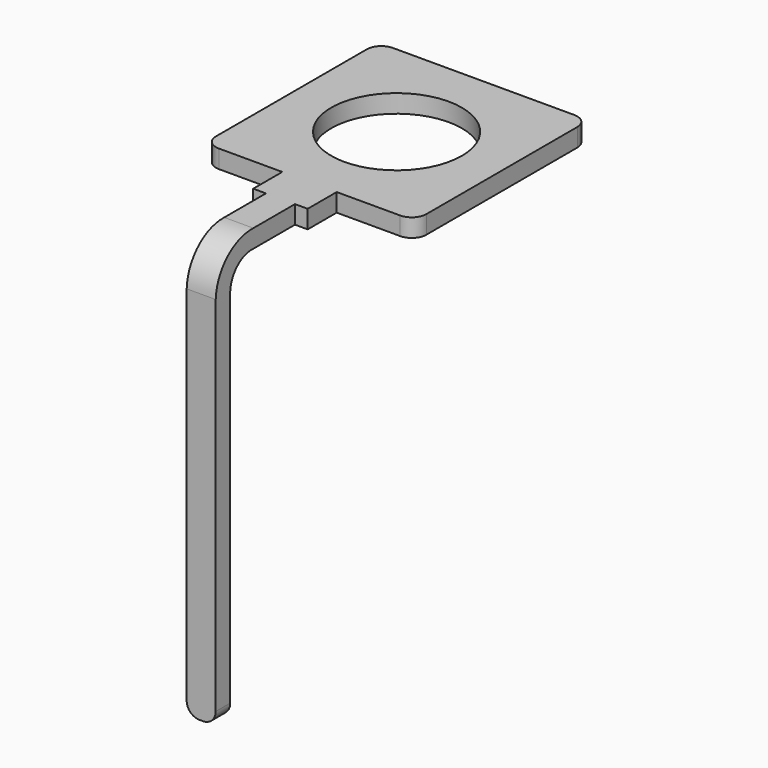
from build123d import *

# Parameters (mm, degrees)
SKETCH008_W     = 5.8
SKETCH008_H     = 6
PAD002_DEPTH    = 0.5
FILLET001_R     = 0.4
SKETCH009_W     = 1.5
SKETCH009_H     = 0.5
PAD003_DEPTH    = 1
SKETCH010_W     = 0.8
SKETCH010_H     = 0.5
FILLET002_R     = 0.35
SKETCH024_R     = 1.8
POCKET008_DEPTH = 0.5


with BuildPart() as part:
    # Sketch008 (on Face1 of CopyPocket005) → Pad002 (new body)
    with BuildSketch(Plane.XY.offset(9.5)):
        Rectangle(SKETCH008_W, SKETCH008_H)
    extrude(amount=PAD002_DEPTH)

    # Fillet001
    fillet001_edges = [part.edges().sort_by_distance(p)[0] for p in [
        (2.9, -3, 9.75),
        (-2.9, -3, 9.75),
        (-2.9, 3, 9.75),
        (2.9, 3, 9.75),
    ]]
    fillet(fillet001_edges, radius=FILLET001_R)

    # Sketch009 (on Face10 of Fillet001) → Pad003 (join)
    with BuildSketch(Plane.XZ.offset(3)):
        with Locations((0, 9.75)):
            Rectangle(SKETCH009_W, SKETCH009_H)
    extrude(amount=PAD003_DEPTH)

    # AdditivePipe: sweep along a path in Sketch011
    with BuildLine(Plane.YZ.offset(0.75)) as additivepipe_path:
        Line((-4, 9.75), (-5.434939, 9.75))
        ThreePointArc((-5.434939, 9.75), (-6.155244, 9.48897), (-6.48, 8.795061))
        Line((-6.48, 8.795061), (-6.48, -1.55))
    # Sketch010 (on Face16 of Pad003) → AdditivePipe (sweep)
    with BuildSketch(Plane.XZ.offset(4)):
        with Locations((0, 9.75)):
            Rectangle(SKETCH010_W, SKETCH010_H)
    sweep(path=additivepipe_path.line)

    # Fillet002
    fillet002_edges = [part.edges().sort_by_distance(p)[0] for p in [
        (-0.4, -6.48, -1.55),
        (0.4, -6.48, -1.55),
    ]]
    fillet(fillet002_edges, radius=FILLET002_R)

    # Sketch024 (on Face32 of Fillet002) → Pocket008 (cut)
    with BuildSketch(Plane.XY.offset(10)):
        Circle(SKETCH024_R)
    extrude(amount=-POCKET008_DEPTH, mode=Mode.SUBTRACT)


with BuildPart() as part_1:
    # Body001 placement: moved
    add(part.part.moved(Location((0, 0, -2))))


solid = part_1.part
